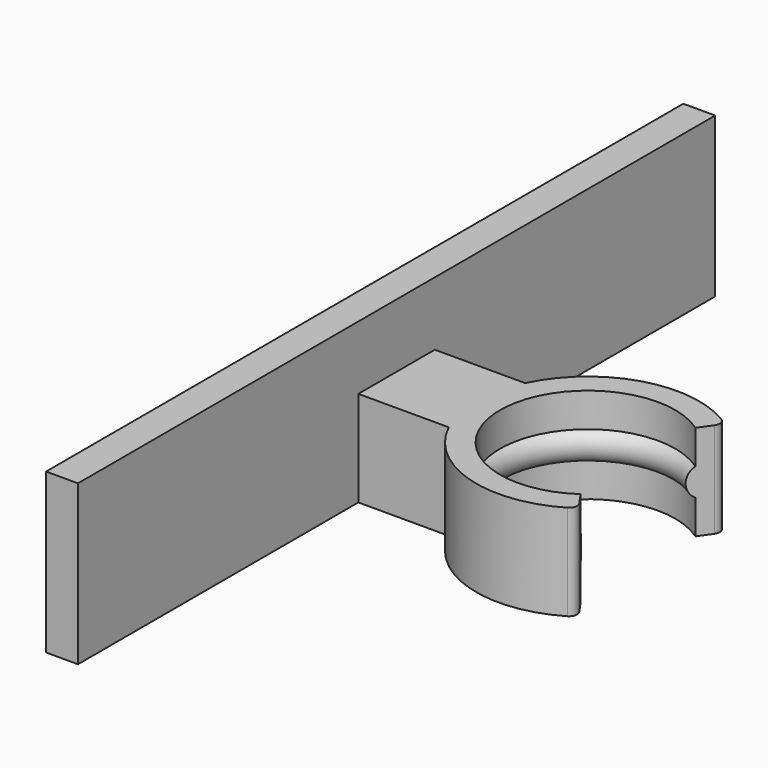
from build123d import *

# Parameters (mm, degrees)
TORUS_R                = 1
CYLINDER_R             = 5.5
CYLINDER_DEPTH         = 36
FILLET_R               = 4
CYLINDER002_W          = 7
CYLINDER002_H          = 6
CYLINDER002_ANGLE      = 250
FILLET001_R            = 0.5
CUT001_PLACEMENT_ANGLE = 55
BOX_W                  = 8
BOX_H                  = 6
BOX_DEPTH              = 6
BOX001_W               = 2
BOX001_H               = 50
BOX001_DEPTH           = 10


with BuildPart() as toro:
    # Torus → Torus (revolve)
    with BuildSketch(Plane(origin=(0, 0, 26), x_dir=(1, 0, 0), z_dir=(0, -1, 0))):
        with Locations((6, 0)):
            Circle(TORUS_R)
    revolve(axis=Axis((0, 0, 26), (0, 0, 1)))


with BuildPart() as led:
    # Cylinder → Cylinder (new body)
    with BuildSketch(Plane.XY):
        Circle(CYLINDER_R)
    extrude(amount=CYLINDER_DEPTH)

    # Fillet
    fillet_edges = [led.edges().sort_by_distance(p)[0] for p in [
        (-5.5, 0, 36),
    ]]
    fillet(fillet_edges, radius=FILLET_R)

    # Cut: cut Toro
    add(toro.part, mode=Mode.SUBTRACT)


with BuildPart() as obj1:
    # Cylinder002 → Cylinder002 (revolve)
    with BuildSketch(Plane(origin=(0, 0, 4), x_dir=(1, 0, 0), z_dir=(0, -1, 0))):
        with Locations((3.5, 3)):
            Rectangle(CYLINDER002_W, CYLINDER002_H)
    revolve(axis=Axis((0, 0, 4), (0, 0, 1)), revolution_arc=CYLINDER002_ANGLE)

    # Fillet001
    fillet001_edges = [obj1.edges().sort_by_distance(p)[0] for p in [
        (-2.394141, -6.577848, 7),
        (7, 0, 7),
    ]]
    fillet(fillet001_edges, radius=FILLET001_R)


with BuildPart() as obj1_1:
    # Fillet001 placement: moved
    add(obj1.part.moved(Location((0, 0, 19))))

    # Cut001: cut led
    add(led.part, mode=Mode.SUBTRACT)


with BuildPart() as obj1_2:
    # Cut001 placement: moved
    add(obj1_1.part.moved(Location((0, 0, -26))).rotate(Axis((0, 0, -26), (0, 0, 1)), CUT001_PLACEMENT_ANGLE))


with BuildPart() as fusion:
    # Box → Box (new body)
    with BuildSketch(Plane(origin=(-14, -3, -3), x_dir=(1, 0, 0), z_dir=(0, 0, 1))):
        with Locations((4, 3)):
            Rectangle(BOX_W, BOX_H)
    extrude(amount=BOX_DEPTH)

    # Fusion: union obj1
    add(obj1_2.part)


with BuildPart() as obj2:
    # Box001 → Box001 (new body)
    with BuildSketch(Plane(origin=(-14, -25, -3), x_dir=(1, 0, 0), z_dir=(0, 0, 1))):
        with Locations((1, 25)):
            Rectangle(BOX001_W, BOX001_H)
    extrude(amount=BOX001_DEPTH)

    # Fusion001: union Fusion
    add(fusion.part)


solid = obj2.part
